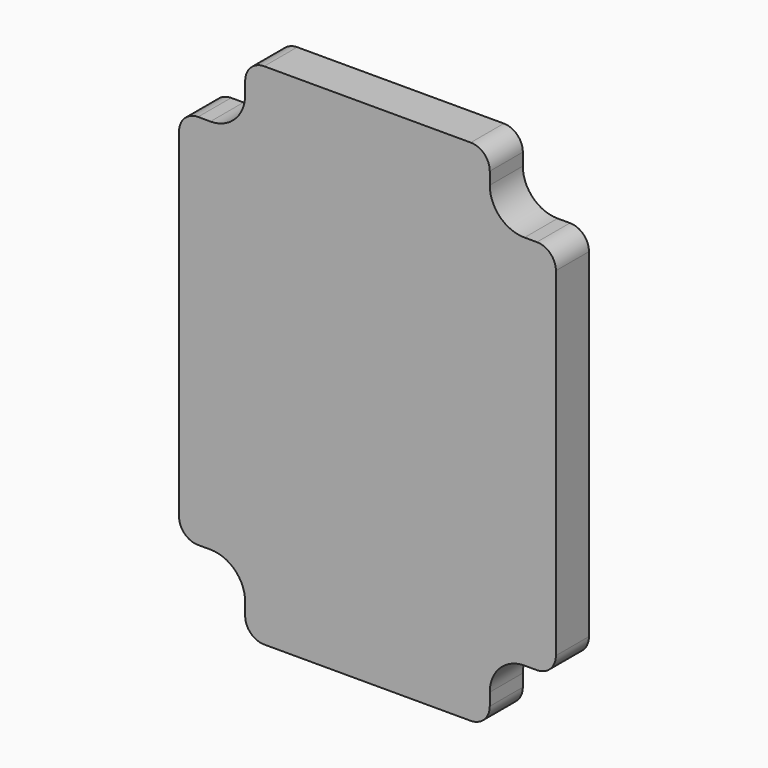
from build123d import *

# Parameters (mm, degrees)
F1_DEPTH = 3.175


with BuildPart() as f1:
    # F0 (on Front) → F1 (new body)
    with BuildSketch(Plane.XZ):
        with BuildLine():
            Line((-11.770303, 14.329202), (-12.722803, 14.329202))
            ThreePointArc((-12.722803, 14.329202), (-13.754507, 13.901856), (-14.181852, 12.870152))
            Line((-14.181852, 12.870152), (-14.181852, -13.164848))
            ThreePointArc((-14.181852, -13.164848), (-13.754507, -14.196552), (-12.722803, -14.623898))
            Line((-12.722803, -14.623898), (-11.770303, -14.623898))
            ThreePointArc((-11.770303, -14.623898), (-9.883423, -15.405469), (-9.101852, -17.292348))
            Line((-9.101852, -17.292348), (-9.101852, -18.244848))
            ThreePointArc((-9.101852, -18.244848), (-8.674507, -19.276552), (-7.642803, -19.703898))
            Line((-7.642803, -19.703898), (8.232197, -19.703898))
            ThreePointArc((8.232197, -19.703898), (9.263901, -19.276552), (9.691247, -18.244848))
            Line((9.691247, -18.244848), (9.691247, -17.292348))
            ThreePointArc((9.691247, -17.292348), (10.472818, -15.405469), (12.359697, -14.623898))
            Line((12.359697, -14.623898), (13.312197, -14.623898))
            ThreePointArc((13.312197, -14.623898), (14.343901, -14.196552), (14.771247, -13.164848))
            Line((14.771247, -13.164848), (14.771247, 12.870152))
            ThreePointArc((14.771247, 12.870152), (14.343901, 13.901856), (13.312197, 14.329202))
            Line((13.312197, 14.329202), (12.359697, 14.329202))
            ThreePointArc((12.359697, 14.329202), (10.472818, 15.110773), (9.691247, 16.997652))
            Line((9.691247, 16.997652), (9.691247, 17.950152))
            ThreePointArc((9.691247, 17.950152), (9.263901, 18.981856), (8.232197, 19.409202))
            Line((8.232197, 19.409202), (-7.642803, 19.409202))
            ThreePointArc((-7.642803, 19.409202), (-8.674507, 18.981856), (-9.101852, 17.950152))
            Line((-9.101852, 17.950152), (-9.101852, 16.997652))
            ThreePointArc((-9.101852, 16.997652), (-9.883423, 15.110773), (-11.770303, 14.329202))
        make_face()
    extrude(amount=F1_DEPTH)


solid = f1.part
